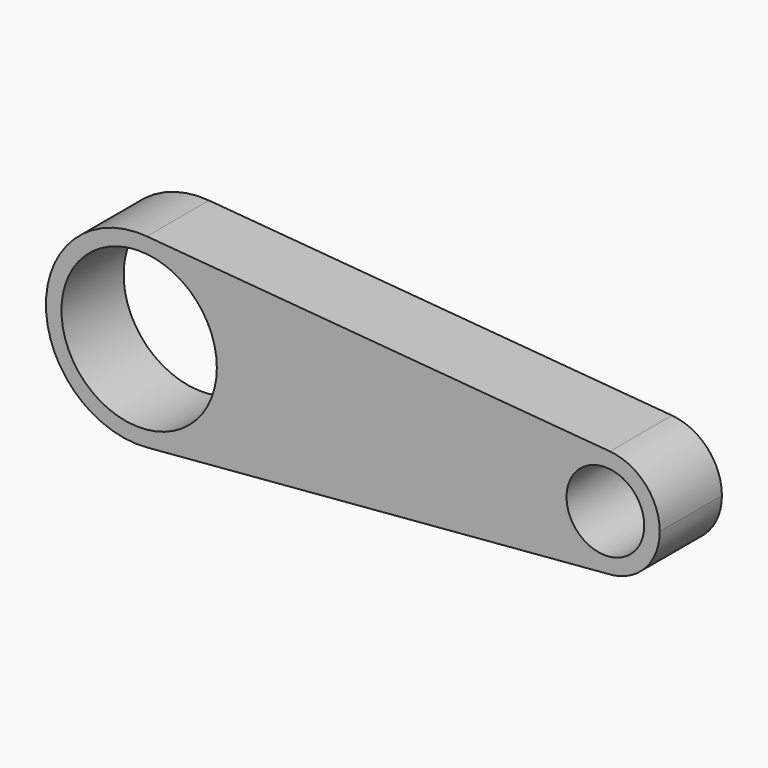
from build123d import *

# Parameters (mm, degrees)
F0_R     = 25
F0_R_2   = 12.5
F1_DEPTH = 25


with BuildPart() as f1:
    # F0 (on Front) → F1 (new body)
    with BuildSketch(Plane.XZ):
        with BuildLine():
            ThreePointArc((-86.641878, -29.895223), (-67.065859, -20.308204), (-59.147002, 0))
            ThreePointArc((-59.147002, 0), (-67.067599, 20.310096), (-86.647002, 29.895652))
            ThreePointArc((-86.647002, 29.895652), (-119.147001, -0.002571), (-86.641878, -29.895223))
        make_face()
        with Locations((-89.147002, 0)):
            Circle(F0_R, mode=Mode.SUBTRACT)
        with BuildLine():
            ThreePointArc((-86.647002, 29.895652), (-67.067599, 20.310096), (-59.147002, 0))
            ThreePointArc((-59.147002, 0), (-67.065859, -20.308204), (-86.641878, -29.895223))
            Line((-86.641878, -29.895223), (61.368954, -17.492392))
            ThreePointArc((61.368954, -17.492392), (43.359363, 0.471941), (62.311332, 17.43913))
            Line((62.311332, 17.43913), (-86.647002, 29.895652))
        make_face()
        with BuildLine():
            ThreePointArc((78.352998, 0), (73.73265, 11.847556), (62.311332, 17.43913))
            ThreePointArc((62.311332, 17.43913), (43.359363, 0.471941), (61.368954, -17.492392))
            ThreePointArc((61.368954, -17.492392), (73.40846, -12.190586), (78.352998, 0))
        make_face()
        with Locations((60.852998, 0)):
            Circle(F0_R_2, mode=Mode.SUBTRACT)
    extrude(amount=F1_DEPTH)


solid = f1.part
